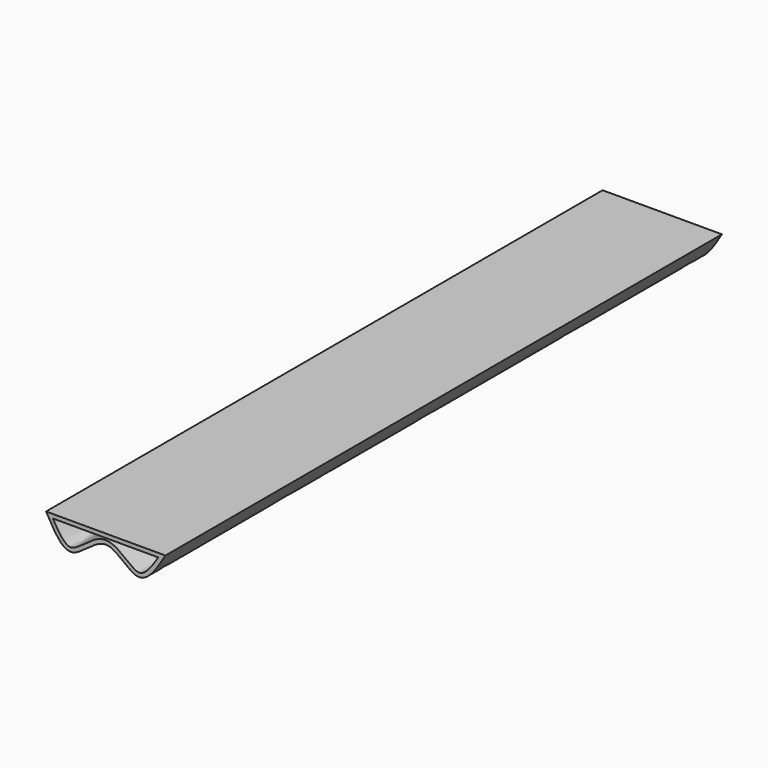
from build123d import *

# Parameters (mm, degrees)
F1_DEPTH = 889
F2_T     = -5.08


with BuildPart() as f1:
    # F0 (on Front) → F1 (new body)
    with BuildSketch(Plane.XZ):
        with BuildLine():
            Line((76.246180377, 35.1238259801), (-76.2496285224, 35.1238259801))
            add(Edge.make_bspline(
                [(-76.2496285224, 35.1238259801), (-66.2015503243, 16.8782419914), (-46.0163630346, -19.7675380851), (0.3192577018, 43.5891661977), (43.1012545256, -19.6456961719), (65.0922687304, 16.6930750922), (76.246180377, 35.1238259801)],
                knots=[0, 0, 0, 0, 0.2492141382, 0.5005778691, 0.7467095359, 1, 1, 1, 1], degree=3))
        make_face()
    extrude(amount=F1_DEPTH)

    # F2
    f2_openings = [f1.faces().sort_by_distance(p)[0] for p in [
        (-0.001724, -889, 33.558685),
    ]]
    offset(amount=F2_T, openings=f2_openings)


solid = f1.part
